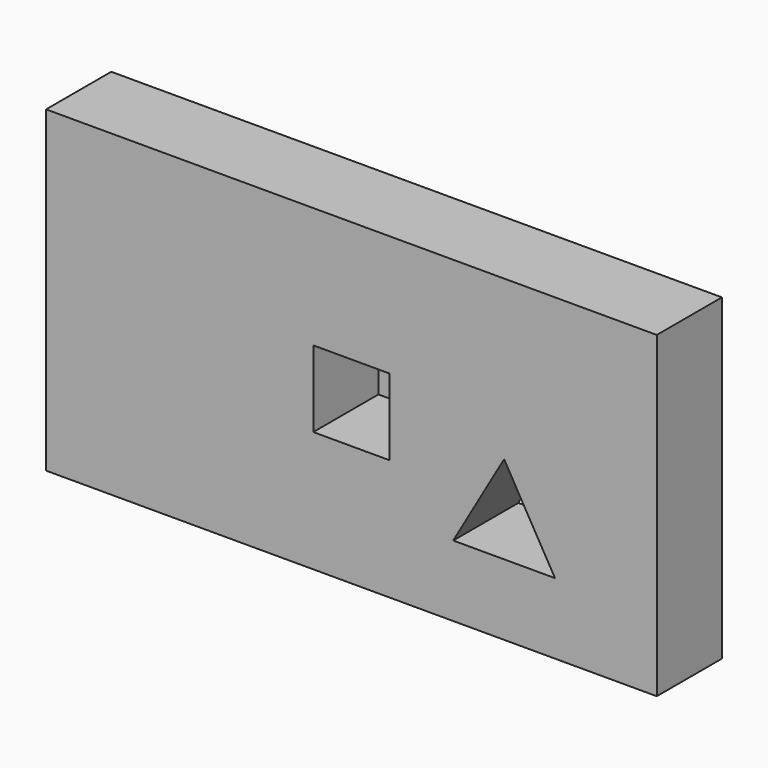
from build123d import *

# Parameters (mm, degrees)
F0_R     = 12.7
F1_DEPTH = 20.32
F2_DEPTH = 31.75


with BuildPart() as f1:
    # F0 (on Front) → F1 (new body)
    with BuildSketch(Plane.XZ):
        Polygon((44.45, -39.6875), (44.45, 0), (44.45, 39.6875), (-107.95, 39.6875), (-107.95, -39.6875), align=None)
        Polygon((-6.35, -21.997045), (6.35, 0), (19.05, -21.997045), align=None, mode=Mode.SUBTRACT)
        with Locations((-82.55, 0)):
            Circle(F0_R, mode=Mode.SUBTRACT)
        Polygon((-22.225, 9.525), (-22.225, 0), (-22.225, -9.525), (-41.275, -9.525), (-41.275, 0), (-41.275, 9.525), align=None, mode=Mode.SUBTRACT)
        with Locations((-82.55, 0)):
            Circle(F0_R)
    extrude(amount=F1_DEPTH)


with BuildPart() as f2:
    # F0 (on Front) → F2 (new body)
    with BuildSketch(Plane.XZ):
        with Locations((-82.55, 0)):
            Circle(F0_R)
        Polygon((-22.225, -9.525), (-22.225, 0), (-31.75, 0), (-41.275, 0), (-41.275, -9.525), align=None)
        Polygon((-31.75, 0), (-22.225, 0), (-22.225, 9.525), (-41.275, 9.525), (-41.275, 0), align=None)
    extrude(amount=-F2_DEPTH)


solid = Compound([f1.part, f2.part])
